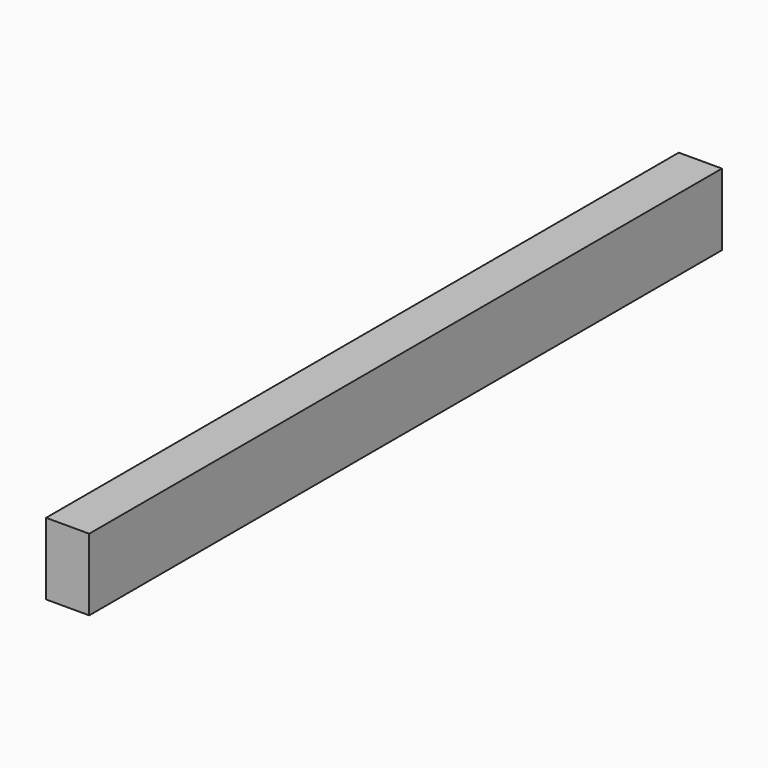
from build123d import *

# Parameters (mm, degrees)
SKETCH_W  = 60
SKETCH_H  = 100
PAD_DEPTH = 550


with BuildPart() as part:
    # Sketch → Pad (new body, symmetric)
    with BuildSketch(Plane.XZ):
        Rectangle(SKETCH_W, SKETCH_H)
    extrude(amount=PAD_DEPTH, both=True)


solid = part.part
